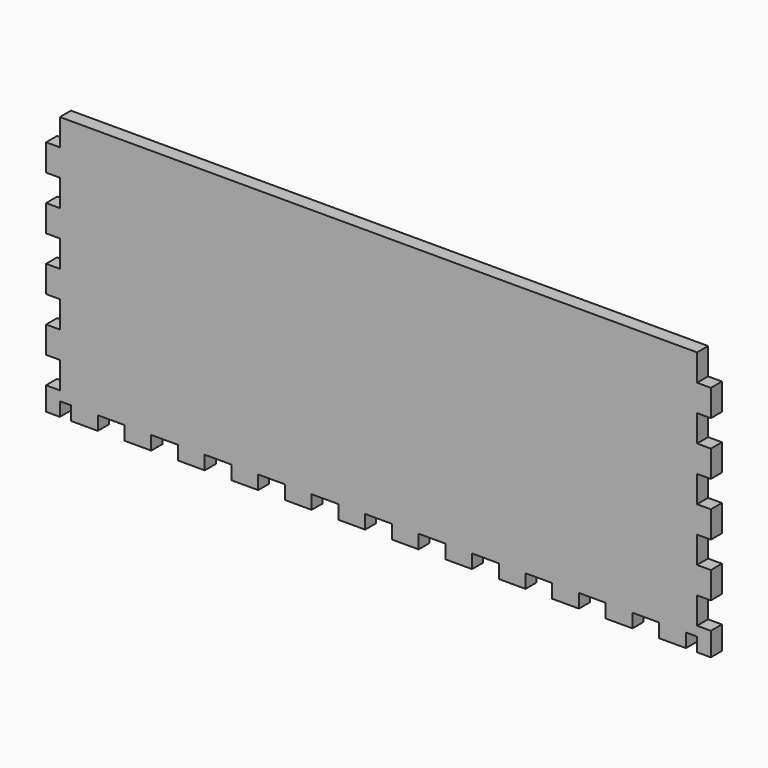
from build123d import *

# Parameters (mm, degrees)
F0_W     = 286
F0_H     = 180
F1_DEPTH = 6.2
F2_W     = 12
F2_H     = 6.2
F2_W_2   = 5
F3_DEPTH = 6.201
F4_W     = 286
F4_H     = 61.5
F5_DEPTH = 6.201
F6_W     = 6.2
F6_H     = 12
F6_H_2   = 10.5
F7_DEPTH = 6.2


with BuildPart() as f1:
    # F0 (on Front) → F1 (new body)
    with BuildSketch(Plane.XZ):
        Rectangle(F0_W, F0_H)
    extrude(amount=F1_DEPTH)

    # F2 (on face) → F3 (cut, through all)
    with BuildSketch(Plane.XZ.offset(6.2)):
        with Locations((-120, -25.4)):
            Rectangle(F2_W, F2_H)
        with Locations((-96, -25.4)):
            Rectangle(F2_W, F2_H)
        with Locations((-72, -25.4)):
            Rectangle(F2_W, F2_H)
        with Locations((-48, -25.4)):
            Rectangle(F2_W, F2_H)
        with Locations((-24, -25.4)):
            Rectangle(F2_W, F2_H)
        with Locations((0, -25.4)):
            Rectangle(F2_W, F2_H)
        with Locations((24, -25.4)):
            Rectangle(F2_W, F2_H)
        with Locations((48, -25.4)):
            Rectangle(F2_W, F2_H)
        with Locations((72, -25.4)):
            Rectangle(F2_W, F2_H)
        with Locations((96, -25.4)):
            Rectangle(F2_W, F2_H)
        with Locations((120, -25.4)):
            Rectangle(F2_W, F2_H)
        with Locations((-140.5, -25.4)):
            Rectangle(F2_W_2, F2_H)
        with Locations((140.5, -25.4)):
            Rectangle(F2_W_2, F2_H)
    extrude(amount=-F3_DEPTH, mode=Mode.SUBTRACT)

    # F4 (on face) → F5 (cut, through all)
    with BuildSketch(Plane.XZ.offset(6.2)):
        with Locations((0, -59.25)):
            Rectangle(F4_W, F4_H)
    extrude(amount=-F5_DEPTH, mode=Mode.SUBTRACT)

    # F6 (on face) → F7 (join)
    with BuildSketch(Plane.XZ.offset(6.2)):
        with Locations((-146.1, 72)):
            Rectangle(F6_W, F6_H)
        with Locations((-146.1, 48)):
            Rectangle(F6_W, F6_H)
        with Locations((-146.1, 24)):
            Rectangle(F6_W, F6_H)
        with Locations((-146.1, 0)):
            Rectangle(F6_W, F6_H)
        with Locations((-146.1, -23.25)):
            Rectangle(F6_W, F6_H_2)
        with Locations((146.1, 48)):
            Rectangle(F6_W, F6_H)
        with Locations((146.1, 72)):
            Rectangle(F6_W, F6_H)
        with Locations((146.1, 24)):
            Rectangle(F6_W, F6_H)
        with Locations((146.1, 0)):
            Rectangle(F6_W, F6_H)
        with Locations((146.1, -23.25)):
            Rectangle(F6_W, F6_H_2)
    extrude(amount=-F7_DEPTH)


solid = f1.part
